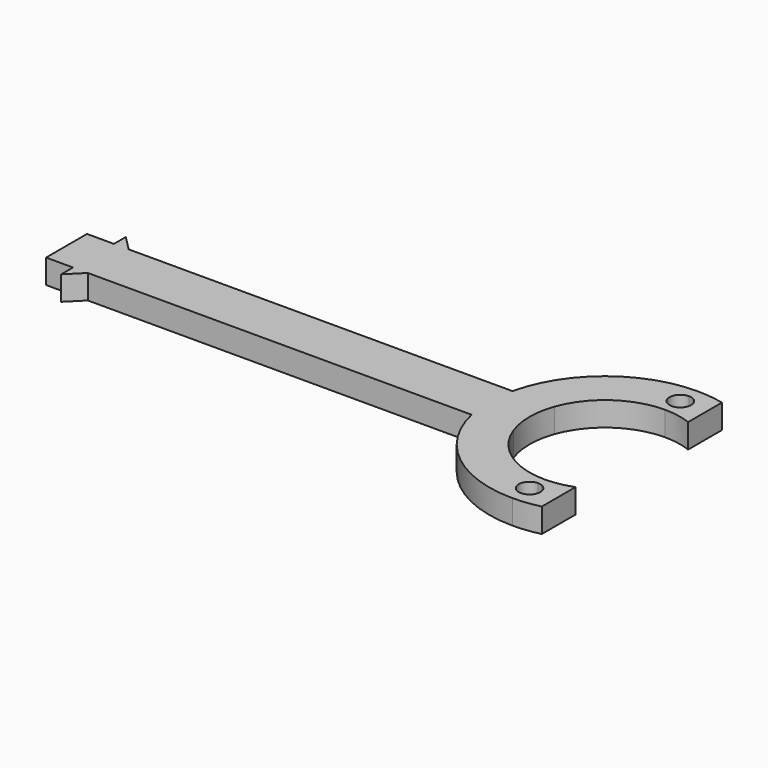
from build123d import *

# Parameters (mm, degrees)
F0_W     = 5
F0_H     = 9.5
F1_DEPTH = 4.5


with BuildPart() as f1:
    # F0 (on Top) → F1 (new body)
    with BuildSketch(Plane.XY):
        with Locations((-47.5, 0)):
            Rectangle(F0_W, F0_H)
        with BuildLine():
            Line((36.8304328089, 4.75), (29.0312732862, 4.75))
            ThreePointArc((29.0312732862, 4.75), (28.5, 0), (29.0312732862, -4.75))
            Line((29.0312732862, -4.75), (36.8304328089, -4.75))
            ThreePointArc((36.8304328089, -4.75), (36, 0), (36.8304328089, 4.75))
        make_face()
        with BuildLine():
            ThreePointArc((50, 21.5), (36.5812630997, 16.7984374273), (29.0312732862, 4.75))
            Line((29.0312732862, 4.75), (36.8304328089, 4.75))
            ThreePointArc((36.8304328089, 4.75), (41.9532615303, 11.4564392374), (50, 14))
            Line((50, 14), (50, 15.5))
            ThreePointArc((50, 15.5), (48, 17.5), (50, 19.5))
            Line((50, 19.5), (50, 21.5))
        make_face()
        with BuildLine():
            Line((36.8304328089, -4.75), (29.0312732862, -4.75))
            ThreePointArc((29.0312732862, -4.75), (36.5812630997, -16.7984374273), (50, -21.5))
            Line((50, -21.5), (50, -19.5))
            ThreePointArc((50, -19.5), (48, -17.5), (50, -15.5))
            Line((50, -15.5), (50, -14))
            ThreePointArc((50, -14), (41.9532615303, -11.4564392374), (36.8304328089, -4.75))
        make_face()
        with BuildLine():
            Line((50, -19.5), (50, -21.5))
            ThreePointArc((50, -21.5), (52.5173141614, -21.3521223632), (55, -20.9105236663))
            Line((55, -20.9105236663), (55, -13.0766968306))
            ThreePointArc((55, -13.0766968306), (52.542267135, -13.7672392953), (50, -14))
            Line((50, -14), (50, -15.5))
            ThreePointArc((50, -15.5), (51.4142135624, -16.0857864376), (52, -17.5))
            ThreePointArc((52, -17.5), (51.4142135624, -18.9142135624), (50, -19.5))
        make_face()
        with BuildLine():
            ThreePointArc((55, 20.9105236663), (52.5173141614, 21.3521223632), (50, 21.5))
            Line((50, 21.5), (50, 19.5))
            ThreePointArc((50, 19.5), (51.4142135624, 18.9142135624), (52, 17.5))
            ThreePointArc((52, 17.5), (51.4142135624, 16.0857864376), (50, 15.5))
            Line((50, 15.5), (50, 14))
            ThreePointArc((50, 14), (52.542267135, 13.7672392953), (55, 13.0766968306))
            Line((55, 13.0766968306), (55, 20.9105236663))
        make_face()
        with BuildLine():
            Line((29.0312732862, 4.75), (-42.25, 4.75))
            Line((-42.25, 4.75), (-37.5, 0))
            Line((-37.5, 0), (-42.25, -4.75))
            Line((-42.25, -4.75), (29.0312732862, -4.75))
            ThreePointArc((29.0312732862, -4.75), (28.5, 0), (29.0312732862, 4.75))
        make_face()
        Polygon((-42.25, 4.75), (-45, 4.75), (-45, -4.75), (-42.25, -4.75), (-37.5, 0), align=None)
        Polygon((-45, 7.5), (-45, 4.75), (-42.25, 4.75), align=None)
        Polygon((-42.25, -4.75), (-45, -4.75), (-45, -7.5), align=None)
    extrude(amount=F1_DEPTH)


solid = f1.part
